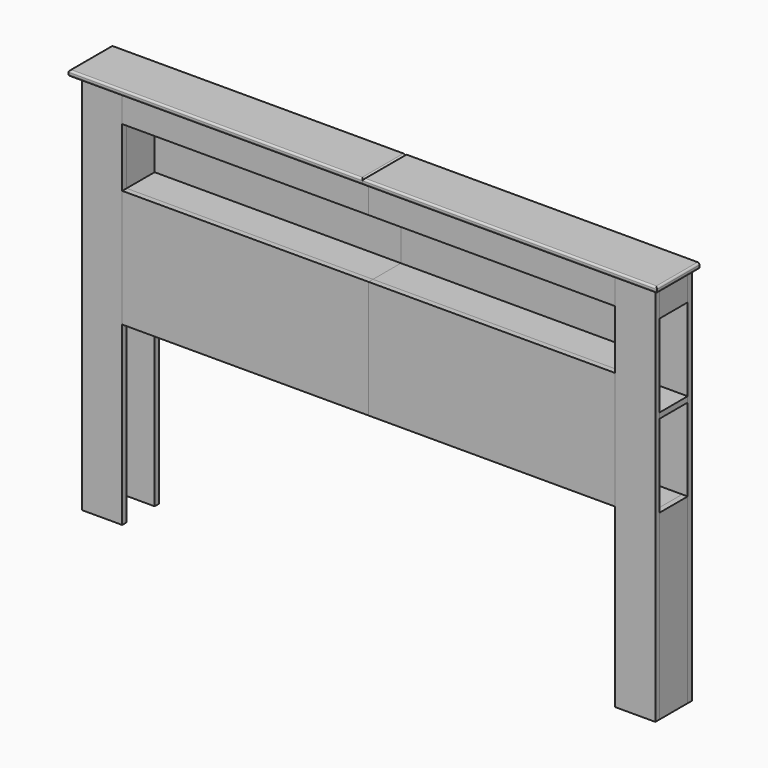
from build123d import *

# Parameters (mm, degrees)
F0_W      = 139.7
F0_H      = 1320.8
F1_DEPTH  = 19.05
F2_W      = 850.9
F2_H      = 406.4
F3_DEPTH  = 19.05
F5_DEPTH  = 120.65
F6_W      = 850.9
F6_H      = 101.6
F7_DEPTH  = 19.05
F8_W      = 850.9
F8_H      = 323.85
F9_DEPTH  = 19.05
F10_W     = 120.65
F10_H     = 101.6
F10_H_2   = 628.89129
F11_DEPTH = 19.05
F12_W     = 139.7
F12_H     = 1320.8
F13_DEPTH = 19.05
F14_W     = 1016
F14_H     = 184.15
F15_DEPTH = 19.05
F16_R     = 6.35


with BuildPart() as f1:
    # F0 (on Front) → F1 (new body)
    with BuildSketch(Plane.XZ):
        with Locations((920.75, 660.4)):
            Rectangle(F0_W, F0_H)
    extrude(amount=F1_DEPTH)


with BuildPart() as f3:
    # F2 (on Front) → F3 (new body)
    with BuildSketch(Plane.XZ):
        with Locations((425.45, 812.8)):
            Rectangle(F2_W, F2_H)
    extrude(amount=F3_DEPTH)


with BuildPart() as f5:
    # F4 (on Front) → F5 (new body)
    with BuildSketch(Plane.XZ):
        Polygon((850.9, 1016), (0, 1016), (0, 996.95), (850.9, 996.95), (850.9, 609.6), (869.95, 609.6), (971.55, 609.6), (971.55, 628.89129), (869.95, 628.89129), (869.95, 914.520645), (990.6, 914.520645), (990.6, 933.570645), (869.95, 933.570645), (869.95, 1219.2), (971.55, 1219.2), (971.55, 1238.25), (869.95, 1238.25), (0, 1238.25), (0, 1219.2), (850.9, 1219.2), align=None)
    extrude(amount=-F5_DEPTH)


with BuildPart() as f7:
    # F6 (on face) → F7 (new body)
    with BuildSketch(Plane.XZ):
        with Locations((425.45, 1270)):
            Rectangle(F6_W, F6_H)
    extrude(amount=F7_DEPTH)


with BuildPart() as f9:
    # F8 (on face) → F9 (new body)
    with BuildSketch(Plane(origin=(0, 120.65, 0), x_dir=(-1, 0, 0), z_dir=(0, 1, 0))):
        with Locations((-425.45, 1158.875)):
            Rectangle(F8_W, F8_H)
    extrude(amount=F9_DEPTH)


with BuildPart() as f11:
    # F10 (on face) → F11 (new body)
    with BuildSketch(Plane.YZ.offset(971.55)):
        with Locations((60.325, 1270)):
            Rectangle(F10_W, F10_H)
        with Locations((60.325, 314.445645)):
            Rectangle(F10_W, F10_H_2)
    extrude(amount=F11_DEPTH)


with BuildPart() as f13:
    # F12 (on face) → F13 (new body)
    with BuildSketch(Plane(origin=(0, 120.65, 0), x_dir=(-1, 0, 0), z_dir=(0, 1, 0))):
        with Locations((-920.75, 660.4)):
            Rectangle(F12_W, F12_H)
    extrude(amount=F13_DEPTH)


with BuildPart() as f15:
    # F14 (on face) → F15 (new body)
    with BuildSketch(Plane.XY.offset(1320.8)):
        with Locations((508, 47.625)):
            Rectangle(F14_W, F14_H)
    extrude(amount=F15_DEPTH)

    # F16
    f16_edges = [f15.edges().sort_by_distance(p)[0] for p in [
        (1016, 47.625, 1339.85),
        (508, -44.45, 1339.85),
        (508, -44.45, 1320.8),
        (1016, 47.625, 1320.8),
        (0, 47.625, 1339.85),
        (0, 47.625, 1320.8),
    ]]
    fillet(f16_edges, radius=F16_R)


with BuildPart() as f17_1:
    # F17: instance of F15
    add(f15.part.mirror(Plane.YZ))


with BuildPart() as f17_2:
    # F17: instance of F1
    add(f1.part.mirror(Plane.YZ))


with BuildPart() as f17_3:
    # F17: instance of F3
    add(f3.part.mirror(Plane.YZ))


with BuildPart() as f17_4:
    # F17: instance of F5
    add(f5.part.mirror(Plane.YZ))


with BuildPart() as f17_5:
    # F17: instance of F7
    add(f7.part.mirror(Plane.YZ))


with BuildPart() as f17_6:
    # F17: instance of F9
    add(f9.part.mirror(Plane.YZ))


with BuildPart() as f17_7:
    # F17: instance of F11
    add(f11.part.mirror(Plane.YZ))


with BuildPart() as f17_8:
    # F17: instance of F13
    add(f13.part.mirror(Plane.YZ))


solid = Compound([f1.part, f3.part, f5.part, f7.part, f9.part, f11.part, f13.part, f15.part, f17_1.part, f17_2.part, f17_3.part, f17_4.part, f17_5.part, f17_6.part, f17_7.part, f17_8.part])
